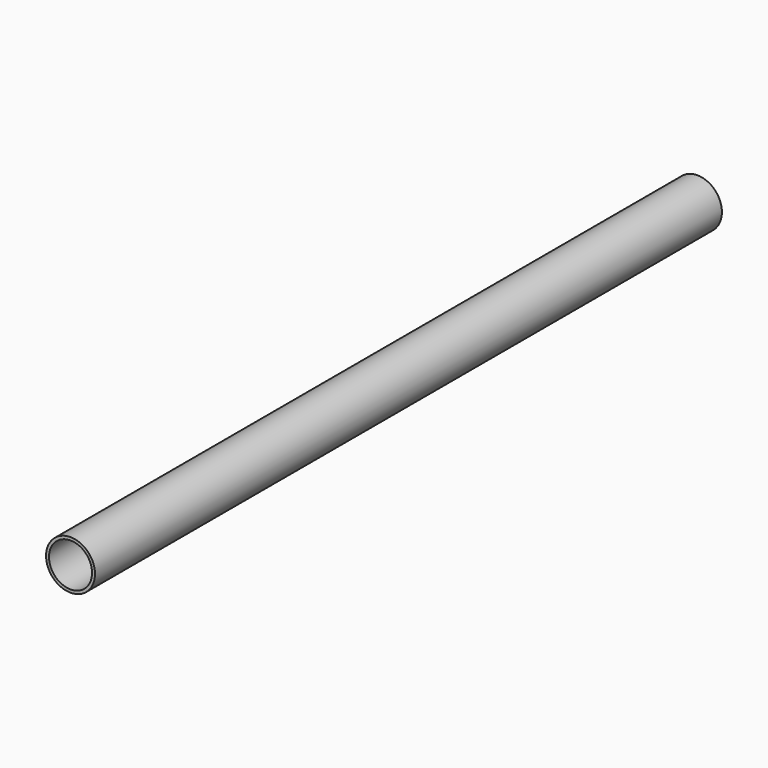
from build123d import *

# Parameters (mm, degrees)
SKETCH004_R   = 12.5
SKETCH004_R_2 = 11
PAD004_DEPTH  = 400


with BuildPart() as part:
    # Sketch004 → Pad004 (new body)
    with BuildSketch(Plane.XZ.offset(-148)):
        Circle(SKETCH004_R)
        Circle(SKETCH004_R_2, mode=Mode.SUBTRACT)
    extrude(amount=PAD004_DEPTH)


solid = part.part
